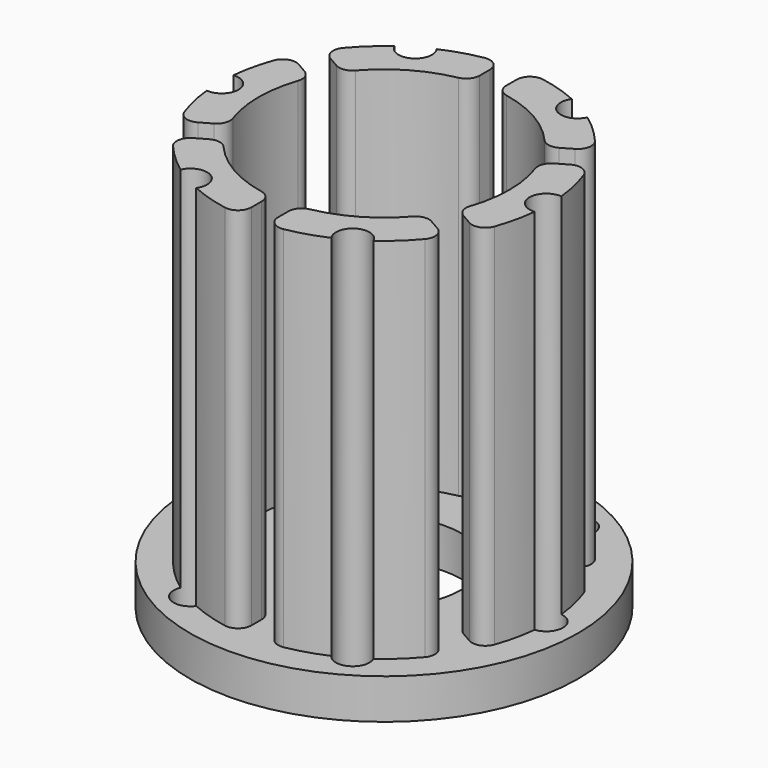
from build123d import *

# Parameters (mm, degrees)
F1_DEPTH = 55
F2_R     = 29
F2_R_2   = 11.5
F3_DEPTH = 6
F5_R     = 2.5
F7_DEPTH = 100
F8_COUNT = 6


with BuildPart() as f1:
    # F0 (on Top) → F1 (new body)
    with BuildSketch(Plane.XY):
        with BuildLine():
            Line((-2, -22.2686017747), (-2, -20.3608079407))
            ThreePointArc((-2, -20.3608079407), (-2.4554799552, -19.0901947694), (-3.6144578313, -18.3983204284))
            ThreePointArc((-3.6144578313, -18.3983204284), (-9.375, -16.237976321), (-14.1261839623, -12.329372517))
            ThreePointArc((-14.1261839623, -12.329372517), (-15.3048536558, -11.6716054044), (-16.6329769183, -11.9124547779))
            Line((-16.6329769183, -11.9124547779), (-18.2851748436, -12.8663516949))
            ThreePointArc((-18.2851748436, -12.8663516949), (-19.2553429626, -14.2542548846), (-18.8131461005, -15.888869022))
            ThreePointArc((-18.8131461005, -15.888869022), (-12.3125, -21.3258755682), (-4.3535911602, -24.2370969592))
            ThreePointArc((-4.3535911602, -24.2370969592), (-2.7168753608, -23.8027436065), (-2, -22.2686017747))
        make_face()
    extrude(amount=F1_DEPTH)



with BuildPart() as f1b:
    # F0 (on Top) → F1, piece 2 (new body)
    with BuildSketch(Plane.XY):
        with BuildLine():
            ThreePointArc((14.1261839623, -12.329372517), (9.375, -16.237976321), (3.6144578313, -18.3983204284))
            ThreePointArc((3.6144578313, -18.3983204284), (2.4554799552, -19.0901947694), (2, -20.3608079407))
            Line((2, -20.3608079407), (2, -22.2686017747))
            ThreePointArc((2, -22.2686017747), (2.7168753608, -23.8027436065), (4.3535911602, -24.2370969592))
            ThreePointArc((4.3535911602, -24.2370969592), (12.3125, -21.3258755682), (18.8131461005, -15.888869022))
            ThreePointArc((18.8131461005, -15.888869022), (19.2553429626, -14.2542548846), (18.2851748436, -12.8663516949))
            Line((18.2851748436, -12.8663516949), (16.6329769183, -11.9124547779))
            ThreePointArc((16.6329769183, -11.9124547779), (15.3048536558, -11.6716054044), (14.1261839623, -12.329372517))
        make_face()
    extrude(amount=F1_DEPTH)


with BuildPart() as f1c:
    # F0 (on Top) → F1, piece 3 (new body)
    with BuildSketch(Plane.XY):
        with BuildLine():
            ThreePointArc((17.7406417936, -6.0689479114), (17.7603336111, -7.418589365), (18.6329769183, -8.4483531628))
            Line((18.6329769183, -8.4483531628), (20.2851748436, -9.4022500798))
            ThreePointArc((20.2851748436, -9.4022500798), (21.9722183234, -9.5484887219), (23.1667372608, -8.3482279372))
            ThreePointArc((23.1667372608, -8.3482279372), (24.625, 0), (23.1667372608, 8.3482279372))
            ThreePointArc((23.1667372608, 8.3482279372), (21.9722183234, 9.5484887219), (20.2851748436, 9.4022500798))
            Line((20.2851748436, 9.4022500798), (18.6329769183, 8.4483531628))
            ThreePointArc((18.6329769183, 8.4483531628), (17.7603336111, 7.418589365), (17.7406417936, 6.0689479114))
            ThreePointArc((17.7406417936, 6.0689479114), (18.75, 0), (17.7406417936, -6.0689479114))
        make_face()
    extrude(amount=F1_DEPTH)


with BuildPart() as f1d:
    # F0 (on Top) → F1, piece 4 (new body)
    with BuildSketch(Plane.XY):
        with BuildLine():
            ThreePointArc((-17.7406417936, 6.0689479114), (-17.7603336111, 7.418589365), (-18.6329769183, 8.4483531628))
            Line((-18.6329769183, 8.4483531628), (-20.2851748436, 9.4022500798))
            ThreePointArc((-20.2851748436, 9.4022500798), (-21.9722183234, 9.5484887219), (-23.1667372608, 8.3482279372))
            ThreePointArc((-23.1667372608, 8.3482279372), (-24.625, 0), (-23.1667372608, -8.3482279372))
            ThreePointArc((-23.1667372608, -8.3482279372), (-21.9722183234, -9.5484887219), (-20.2851748436, -9.4022500798))
            Line((-20.2851748436, -9.4022500798), (-18.6329769183, -8.4483531628))
            ThreePointArc((-18.6329769183, -8.4483531628), (-17.7603336111, -7.418589365), (-17.7406417936, -6.0689479114))
            ThreePointArc((-17.7406417936, -6.0689479114), (-18.75, 0), (-17.7406417936, 6.0689479114))
        make_face()
    extrude(amount=F1_DEPTH)


with BuildPart() as f1e:
    # F0 (on Top) → F1, piece 5 (new body)
    with BuildSketch(Plane.XY):
        with BuildLine():
            ThreePointArc((-3.6144578313, 18.3983204284), (-2.4554799552, 19.0901947694), (-2, 20.3608079407))
            Line((-2, 20.3608079407), (-2, 22.2686017747))
            ThreePointArc((-2, 22.2686017747), (-2.7168753608, 23.8027436065), (-4.3535911602, 24.2370969592))
            ThreePointArc((-4.3535911602, 24.2370969592), (-12.3125, 21.3258755682), (-18.8131461005, 15.888869022))
            ThreePointArc((-18.8131461005, 15.888869022), (-19.2553429626, 14.2542548846), (-18.2851748436, 12.8663516949))
            Line((-18.2851748436, 12.8663516949), (-16.6329769183, 11.9124547779))
            ThreePointArc((-16.6329769183, 11.9124547779), (-15.3048536558, 11.6716054044), (-14.1261839623, 12.329372517))
            ThreePointArc((-14.1261839623, 12.329372517), (-9.375, 16.237976321), (-3.6144578313, 18.3983204284))
        make_face()
    extrude(amount=F1_DEPTH)


with BuildPart() as f1f:
    # F0 (on Top) → F1, piece 6 (new body)
    with BuildSketch(Plane.XY):
        with BuildLine():
            ThreePointArc((14.1261839623, 12.329372517), (15.3048536558, 11.6716054044), (16.6329769183, 11.9124547779))
            Line((16.6329769183, 11.9124547779), (18.2851748436, 12.8663516949))
            ThreePointArc((18.2851748436, 12.8663516949), (19.2553429626, 14.2542548846), (18.8131461005, 15.888869022))
            ThreePointArc((18.8131461005, 15.888869022), (12.3125, 21.3258755682), (4.3535911602, 24.2370969592))
            ThreePointArc((4.3535911602, 24.2370969592), (2.7168753608, 23.8027436065), (2, 22.2686017747))
            Line((2, 22.2686017747), (2, 20.3608079407))
            ThreePointArc((2, 20.3608079407), (2.4554799552, 19.0901947694), (3.6144578313, 18.3983204284))
            ThreePointArc((3.6144578313, 18.3983204284), (9.375, 16.237976321), (14.1261839623, 12.329372517))
        make_face()
    extrude(amount=F1_DEPTH)


with BuildPart() as f1_1:
    add(f1.part)

    add(f1b.part)  # F3 merges F1b

    add(f1c.part)  # F3 merges F1c

    add(f1d.part)  # F3 merges F1d

    add(f1e.part)  # F3 merges F1e

    add(f1f.part)  # F3 merges F1f
    # F2 (on Top) → F3 (join)
    with BuildSketch(Plane.XY):
        Circle(F2_R)
        Circle(F2_R_2, mode=Mode.SUBTRACT)
    extrude(amount=-F3_DEPTH)


with BuildPart() as f7:
    # F5 (on offset) → F7 (new body)
    with BuildSketch(Plane.XY.offset(80)):
        with Locations((24.25, 0)):
            Circle(F5_R)
    extrude(amount=-F7_DEPTH)


with BuildPart() as f8_1:
    # F8: instance of F7
    add(f7.part.rotate(Axis((0, 0, 60.7173442841), (0, 0, 1)), 1 * 360 / F8_COUNT))


with BuildPart() as f8_2:
    # F8: instance of F7
    add(f7.part.rotate(Axis((0, 0, 60.7173442841), (0, 0, 1)), 2 * 360 / F8_COUNT))


with BuildPart() as f8_3:
    # F8: instance of F7
    add(f7.part.rotate(Axis((0, 0, 60.7173442841), (0, 0, 1)), 3 * 360 / F8_COUNT))


with BuildPart() as f8_4:
    # F8: instance of F7
    add(f7.part.rotate(Axis((0, 0, 60.7173442841), (0, 0, 1)), 4 * 360 / F8_COUNT))


with BuildPart() as f8_5:
    # F8: instance of F7
    add(f7.part.rotate(Axis((0, 0, 60.7173442841), (0, 0, 1)), 5 * 360 / F8_COUNT))


with BuildPart() as f1_2:
    add(f1_1.part)

    # F9: cut F7, F8_2, F8_3, F8_4, F8_5, F8_1
    add(f7.part, mode=Mode.SUBTRACT)
    add(f8_2.part, mode=Mode.SUBTRACT)
    add(f8_3.part, mode=Mode.SUBTRACT)
    add(f8_4.part, mode=Mode.SUBTRACT)
    add(f8_5.part, mode=Mode.SUBTRACT)
    add(f8_1.part, mode=Mode.SUBTRACT)


solid = f1_2.part
